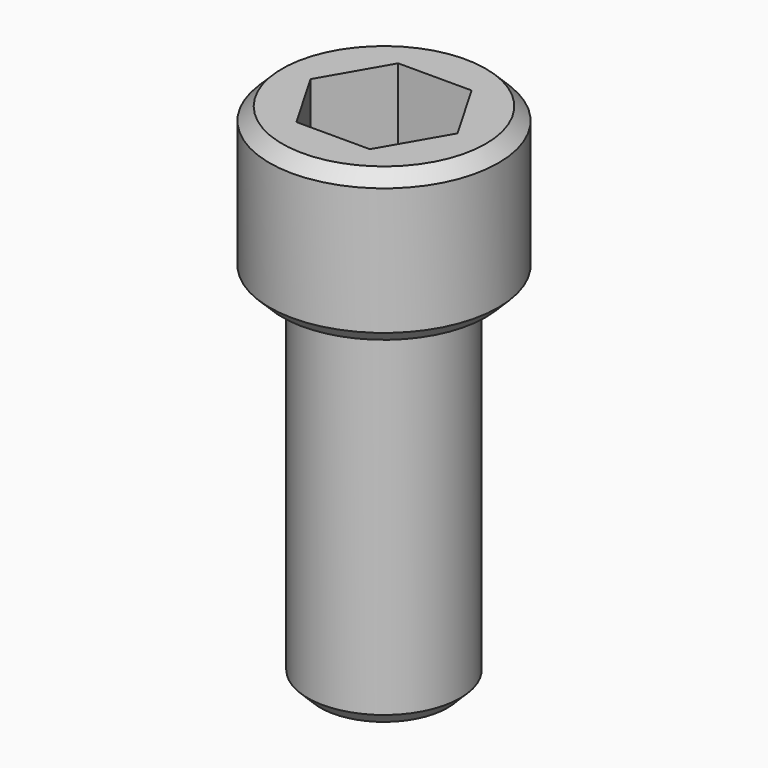
from build123d import *

# Parameters (mm, degrees)
F0_R     = 7.14375
F1_DEPTH = 9.525
F3_DEPTH = 6.35
F4_R     = 4.7625
F5_DEPTH = 22.225
F6_SIZE  = 0.79375
F7_SIZE  = 0.79375
F8_SIZE  = 0.79375


with BuildPart() as f1:
    # F0 (on Top) → F1 (new body)
    with BuildSketch(Plane.XY):
        Circle(F0_R)
    extrude(amount=F1_DEPTH)

    # F2 (on face) → F3 (cut)
    with BuildSketch(Plane.XY.offset(9.525)):
        Polygon((2.291359, 3.96875), (-2.291359, 3.96875), (-4.582718, 0), (-2.291359, -3.96875), (2.291359, -3.96875), (4.582718, 0), align=None)
    extrude(amount=-F3_DEPTH, mode=Mode.SUBTRACT)

    # F4 (on face) → F5 (join)
    with BuildSketch(Plane(origin=(0, 0, 0), x_dir=(1, 0, 0), z_dir=(0, 0, -1))):
        Circle(F4_R)
    extrude(amount=F5_DEPTH)

    # F6
    f6_edges = [f1.edges().sort_by_distance(p)[0] for p in [
        (-7.14375, 0, 9.525),
    ]]
    chamfer(f6_edges, length=F6_SIZE)

    # F7
    f7_edges = [f1.edges().sort_by_distance(p)[0] for p in [
        (-7.14375, 0, 0),
    ]]
    chamfer(f7_edges, length=F7_SIZE)

    # F8
    f8_edges = [f1.edges().sort_by_distance(p)[0] for p in [
        (-4.7625, 0, -22.225),
    ]]
    chamfer(f8_edges, length=F8_SIZE)


solid = f1.part
